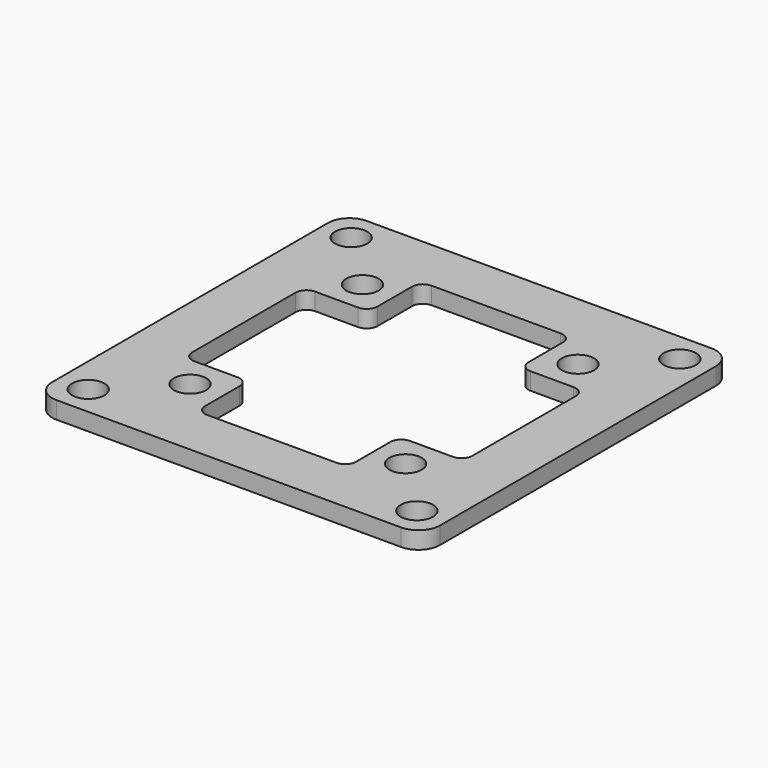
from build123d import *

# Parameters (mm, degrees)
F0_W     = 36
F0_H     = 36
F0_R     = 1.5
F1_DEPTH = 1.6
F2_R     = 2
F3_R     = 1.5
F4_DEPTH = 25
F6_DEPTH = 25
F7_R     = 1


with BuildPart() as f1:
    # F0 (on Top) → F1 (new body)
    with BuildSketch(Plane.XY):
        with Locations((18, 18)):
            Rectangle(F0_W, F0_H)
        with Locations((2.75, 2.75)):
            Circle(F0_R, mode=Mode.SUBTRACT)
        with Locations((33.25, 2.75)):
            Circle(F0_R, mode=Mode.SUBTRACT)
        with Locations((2.75, 33.25)):
            Circle(F0_R, mode=Mode.SUBTRACT)
        with Locations((33.25, 33.25)):
            Circle(F0_R, mode=Mode.SUBTRACT)
    extrude(amount=F1_DEPTH)

    # F2
    f2_edges = [f1.edges().sort_by_distance(p)[0] for p in [
        (0, 36, 0.8),
        (36, 36, 0.8),
        (36, 0, 0.8),
        (0, 0, 0.8),
    ]]
    fillet(f2_edges, radius=F2_R)

    # F3 (on face) → F4 (cut)
    with BuildSketch(Plane.XY.offset(1.6)):
        with Locations((8, 28)):
            Circle(F3_R)
        with Locations((8, 8)):
            Circle(F3_R)
        with Locations((28, 28)):
            Circle(F3_R)
        with Locations((28, 8)):
            Circle(F3_R)
    extrude(amount=-F4_DEPTH, mode=Mode.SUBTRACT)

    # F5 (on face) → F6 (cut)
    with BuildSketch(Plane.XY.offset(1.6)):
        Polygon((11, 5), (25, 5), (25, 11), (31, 11), (31, 25), (25, 25), (25, 31), (11, 31), (11, 25), (5, 25), (5, 11), (11, 11), align=None)
    extrude(amount=-F6_DEPTH, mode=Mode.SUBTRACT)

    # F7
    f7_edges = [f1.edges().sort_by_distance(p)[0] for p in [
        (11, 25, 0.8),
        (25, 25, 0.8),
        (25, 11, 0.8),
        (11, 11, 0.8),
        (11, 5, 0.8),
        (5, 11, 0.8),
        (25, 5, 0.8),
        (31, 11, 0.8),
        (5, 25, 0.8),
        (11, 31, 0.8),
        (31, 25, 0.8),
        (25, 31, 0.8),
    ]]
    fillet(f7_edges, radius=F7_R)


solid = f1.part
